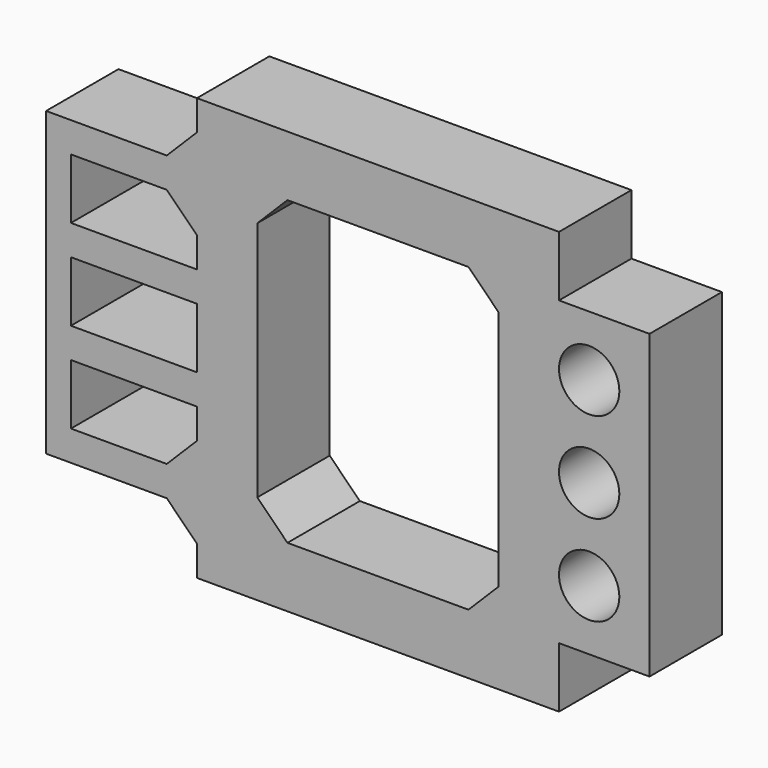
from build123d import *

# Parameters (mm, degrees)
F0_R     = 10
F0_W     = 41.765921
F0_H     = 20
F1_DEPTH = 30


with BuildPart() as f1:
    # F0 (on Front) → F1 (new body)
    with BuildSketch(Plane.XZ):
        Polygon((0, 10), (0, 0), (120, 0), (120, 20), (150, 20), (150, 120), (120, 120), (120, 140), (0, 140), (0, 130), (-10, 120), (-19.487179, 120), (-50, 120), (-50, 20), (-19.487179, 20), (-10, 20), align=None)
        Polygon((-41.765921, 30), (-41.765921, 50), (0, 50), (0, 40), (-10, 30), align=None, mode=Mode.SUBTRACT)
        with Locations((130, 40)):
            Circle(F0_R, mode=Mode.SUBTRACT)
        with Locations((-20.88296, 70)):
            Rectangle(F0_W, F0_H, mode=Mode.SUBTRACT)
        Polygon((-41.765921, 90), (-41.765921, 110), (-10, 110), (0, 100), (0, 90), align=None, mode=Mode.SUBTRACT)
        Polygon((20, 110), (30, 120), (90, 120), (100, 110), (100, 30), (90, 20), (30, 20), (20, 30), align=None, mode=Mode.SUBTRACT)
        with Locations((130, 70)):
            Circle(F0_R, mode=Mode.SUBTRACT)
        with Locations((130, 100)):
            Circle(F0_R, mode=Mode.SUBTRACT)
    extrude(amount=F1_DEPTH)


solid = f1.part
